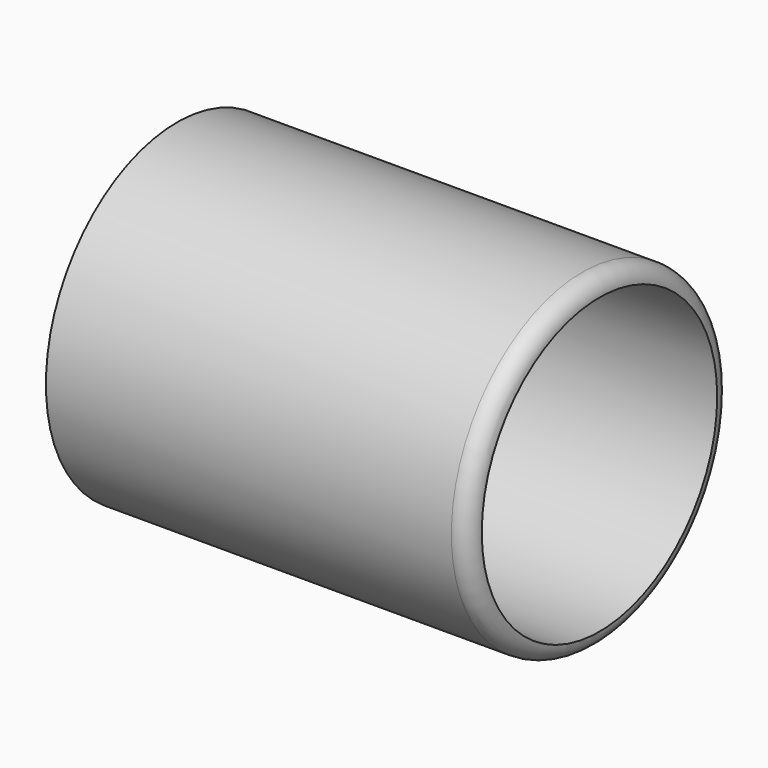
from build123d import *

# Parameters (mm, degrees)
F0_R     = 49.3246068697
F1_DEPTH = 127
F2_R     = 5.08
F3_DEPTH = 25.4
F4_DEPTH = 25.4
F5_DEPTH = 25.4
F6_DEPTH = 25.4


with BuildPart() as f1:
    # F0 (on Right) → F1 (new body)
    with BuildSketch(Plane.YZ):
        Circle(F0_R)
    extrude(amount=F1_DEPTH)

    # F2
    f2_edges = [f1.edges().sort_by_distance(p)[0] for p in [
        (127, -49.324607, 0),
    ]]
    fillet(f2_edges, radius=F2_R)

    # F3 (cut): a face of the model
    f3_faces = [f1.faces().sort_by_distance(p)[0] for p in [
        (127, 0, 0),
    ]]
    extrude(f3_faces, amount=-F3_DEPTH, mode=Mode.SUBTRACT)

    # F4 (cut): a face of the model
    f4_faces = [f1.faces().sort_by_distance(p)[0] for p in [
        (101.6, 0, 0),
    ]]
    extrude(f4_faces, amount=-F4_DEPTH, mode=Mode.SUBTRACT)

    # F5 (cut): a face of the model
    f5_faces = [f1.faces().sort_by_distance(p)[0] for p in [
        (76.2, 0, 0),
    ]]
    extrude(f5_faces, amount=-F5_DEPTH, mode=Mode.SUBTRACT)

    # F6 (cut): a face of the model
    f6_faces = [f1.faces().sort_by_distance(p)[0] for p in [
        (50.8, 0, 0),
    ]]
    extrude(f6_faces, amount=-F6_DEPTH, mode=Mode.SUBTRACT)


solid = f1.part
